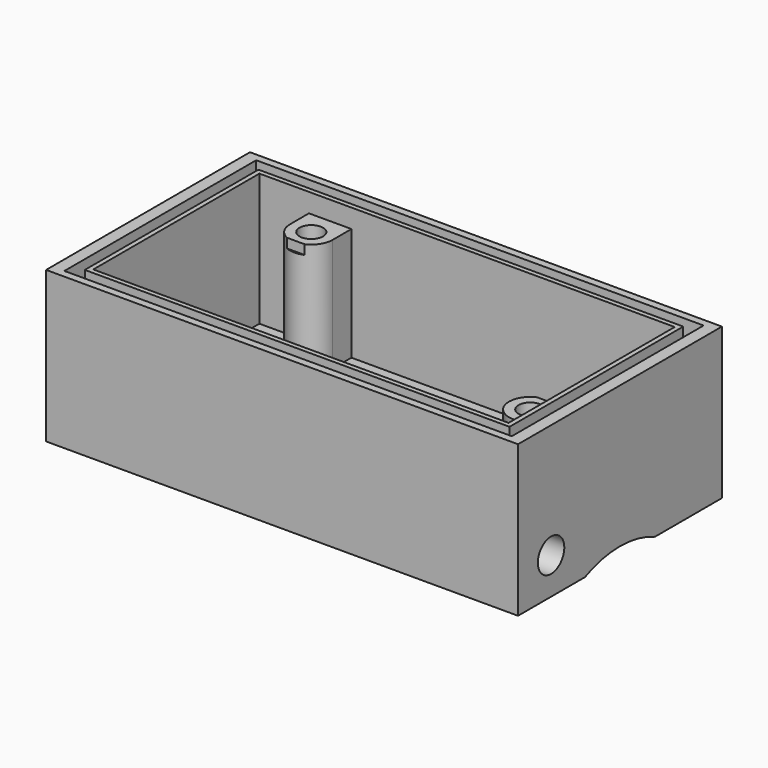
from build123d import *

# Parameters (mm, degrees)
F0_W      = 50
F0_H      = 27
F1_DEPTH  = 16
F2_W      = 44
F2_H      = 22
F3_DEPTH  = 14
F5_DEPTH  = 12
F6_R      = 1.25
F8_DEPTH  = 14.001
F7_R      = 1.25
F9_DEPTH  = 14.001
F11_DEPTH = 1.8
F13_DEPTH = 2
F14_W     = 4
F14_H     = 0.2
F15_DEPTH = 1
F16_W     = 1.2
F16_H     = 0.5
F16_H_2   = 23
F17_DEPTH = 2
F18_W     = 3.75
F18_H     = 3.75
F19_DEPTH = 4.5
F20_W     = 3.75
F20_H     = 3.75
F21_DEPTH = 4.5
F22_R     = 1.75
F23_DEPTH = 7.501
F24_R     = 1.75
F25_DEPTH = 7.501
F26_R     = 11.25
F27_DEPTH = 29.5


with BuildPart() as f1:
    # F0 (on Top) → F1 (new body)
    with BuildSketch(Plane.XY):
        Rectangle(F0_W, F0_H)
    extrude(amount=F1_DEPTH)

    # F2 (on face) → F3 (cut)
    with BuildSketch(Plane.XY.offset(16)):
        Rectangle(F2_W, F2_H)
    extrude(amount=-F3_DEPTH, mode=Mode.SUBTRACT)

    # F4 (on face) → F5 (join)
    with BuildSketch(Plane.XY.offset(2)):
        with BuildLine():
            ThreePointArc((19.5, -7.25), (21.0909902577, -6.5909902577), (21.75, -5))
            ThreePointArc((21.75, -5), (21.0909902577, -3.4090097423), (19.5, -2.75))
            Line((19.5, -2.75), (19.5, -7.25))
        make_face()
        with BuildLine():
            ThreePointArc((19.5, -2.75), (21.0909902577, -3.4090097423), (21.75, -5))
            ThreePointArc((21.75, -5), (21.0909902577, -6.5909902577), (19.5, -7.25))
            Line((19.5, -7.25), (22, -7.25))
            Line((22, -7.25), (22, -2.75))
            Line((22, -2.75), (19.5, -2.75))
        make_face()
        with BuildLine():
            Line((19.5, -7.25), (19.5, -2.75))
            ThreePointArc((19.5, -2.75), (17.25, -5), (19.5, -7.25))
        make_face()
        with BuildLine():
            Line((-16.75, 8.5), (-12.25, 8.5))
            ThreePointArc((-12.25, 8.5), (-14.5, 10.75), (-16.75, 8.5))
        make_face()
        with BuildLine():
            ThreePointArc((-16.75, 8.5), (-14.5, 6.25), (-12.25, 8.5))
            Line((-12.25, 8.5), (-16.75, 8.5))
        make_face()
        with BuildLine():
            ThreePointArc((-16.75, 8.5), (-14.5, 10.75), (-12.25, 8.5))
            Line((-12.25, 8.5), (-12.25, 11))
            Line((-12.25, 11), (-16.75, 11))
            Line((-16.75, 11), (-16.75, 8.5))
        make_face()
    extrude(amount=F5_DEPTH)

    # F6 (on face) → F8 (cut, through all)
    with BuildSketch(Plane.XY.offset(14)):
        with Locations((-14.5, 8.5)):
            Circle(F6_R)
    extrude(amount=-F8_DEPTH, mode=Mode.SUBTRACT)

    # F7 (on face) → F9 (cut, through all)
    with BuildSketch(Plane.XY.offset(14)):
        with Locations((19.5, -5)):
            Circle(F7_R)
    extrude(amount=-F9_DEPTH, mode=Mode.SUBTRACT)

    # F10 (on face) → F11 (cut)
    with BuildSketch(Plane(origin=(0, 0, 0), x_dir=(1, 0, 0), z_dir=(0, 0, -1))):
        Polygon((-15.6547005384, -10.5), (-13.3452994616, -10.5), (-12.1905989232, -8.5), (-13.3452994616, -6.5), (-15.6547005384, -6.5), (-16.8094010768, -8.5), align=None)
        Polygon((20.6547005384, 7), (18.3452994616, 7), (17.1905989232, 5), (18.3452994616, 3), (20.6547005384, 3), (21.8094010768, 5), align=None)
    extrude(amount=-F11_DEPTH, mode=Mode.SUBTRACT)

    # F12 (on face) → F13 (cut)
    with BuildSketch(Plane.XY.offset(14)):
        with BuildLine():
            Line((22, -2.95), (22, -2.75))
            Line((22, -2.75), (19.5, -2.75))
            ThreePointArc((19.5, -2.75), (19.025658351, -2.8005682552), (18.5726381505, -2.95))
            Line((18.5726381505, -2.95), (22, -2.95))
        make_face()
    extrude(amount=-F13_DEPTH, mode=Mode.SUBTRACT)

    # F14 (on face) → F15 (cut)
    with BuildSketch(Plane.XY.offset(14)):
        with Locations((-14.2456165999, 6.35)):
            Rectangle(F14_W, F14_H)
    extrude(amount=-F15_DEPTH, mode=Mode.SUBTRACT)

    # F16 (on face) → F17 (cut)
    with BuildSketch(Plane.XY.offset(16)):
        Polygon((-22.5, -11.5), (-22.5, -12), (-23.7, -12), (-23.7, -12.7), (23.7, -12.7), (23.7, -12), (22.5, -12), (22.5, -11.5), align=None)
        with Locations((-23.1, -11.75)):
            Rectangle(F16_W, F16_H)
        with Locations((-23.1, 0)):
            Rectangle(F16_W, F16_H_2)
        with Locations((-23.1, 11.75)):
            Rectangle(F16_W, F16_H)
        Polygon((-22.5, 12), (-22.5, 11.5), (22.5, 11.5), (22.5, 12), (23.7, 12), (23.7, 12.7), (-23.7, 12.7), (-23.7, 12), align=None)
        with Locations((23.1, -11.75)):
            Rectangle(F16_W, F16_H)
        with Locations((23.1, 0)):
            Rectangle(F16_W, F16_H_2)
        with Locations((23.1, 11.75)):
            Rectangle(F16_W, F16_H)
    extrude(amount=-F17_DEPTH, mode=Mode.SUBTRACT)

    # F18 (on face) → F19 (join)
    with BuildSketch(Plane(origin=(22, 0, 0), x_dir=(0, -1, 0), z_dir=(-1, 0, 0))):
        with Locations((9.125, 3.875)):
            Rectangle(F18_W, F18_H)
    extrude(amount=F19_DEPTH)

    # F20 (on face) → F21 (join)
    with BuildSketch(Plane.YZ.offset(-22)):
        with Locations((-9.125, 3.875)):
            Rectangle(F20_W, F20_H)
    extrude(amount=F21_DEPTH)

    # F22 (on face) → F23 (cut, through all)
    with BuildSketch(Plane.YZ.offset(-17.5)):
        with Locations((-9.125, 3.875)):
            Circle(F22_R)
    extrude(amount=-F23_DEPTH, mode=Mode.SUBTRACT)

    # F24 (on face) → F25 (cut, through all)
    with BuildSketch(Plane(origin=(17.5, 0, 0), x_dir=(0, -1, 0), z_dir=(-1, 0, 0))):
        with Locations((9.125, 3.875)):
            Circle(F24_R)
    extrude(amount=-F25_DEPTH, mode=Mode.SUBTRACT)

    # F26 (on Right) → F27 (cut, symmetric)
    with BuildSketch(Plane.YZ):
        with Locations((0, -10.25)):
            Circle(F26_R)
    extrude(amount=F27_DEPTH, both=True, mode=Mode.SUBTRACT)


solid = f1.part
